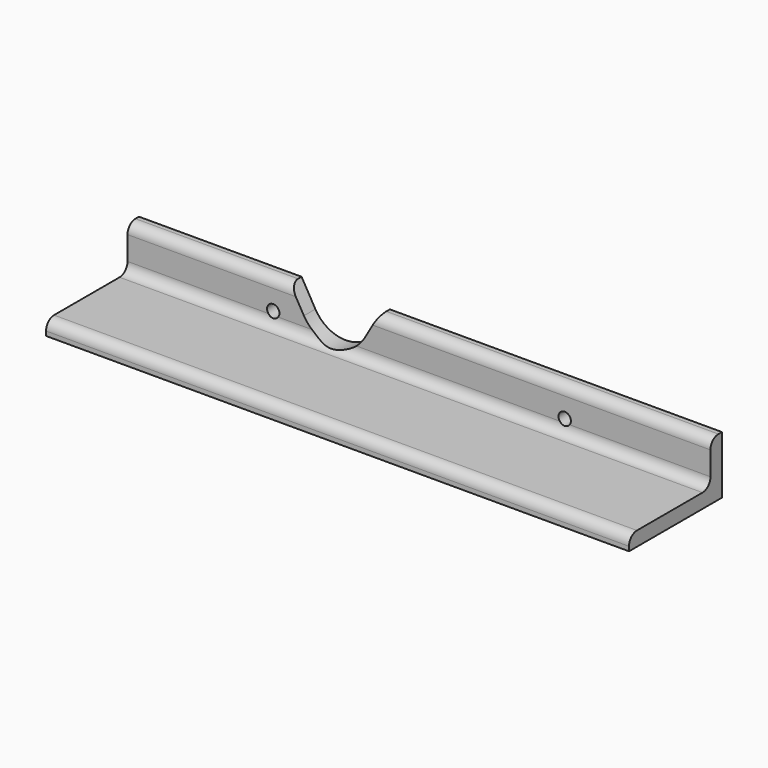
from build123d import *

# Parameters (mm, degrees)
F1_DEPTH = 127
F2_R     = 1.3462
F3_DEPTH = 25.2994
F5_DEPTH = 25.2994


with BuildPart() as f1:
    # F0 (on Right) → F1 (new body)
    with BuildSketch(Plane.YZ):
        with BuildLine():
            Line((-10.285505, -7.297242), (-10.285505, -8.262442))
            Line((-10.285505, -8.262442), (15.012895, -8.262442))
            Line((15.012895, -8.262442), (15.012895, 4.335958))
            Line((15.012895, 4.335958), (14.047695, 4.335958))
            ThreePointArc((14.047695, 4.335958), (12.521052, 3.703602), (11.888695, 2.176958))
            Line((11.888695, 2.176958), (11.888695, -2.979242))
            ThreePointArc((11.888695, -2.979242), (11.256339, -4.505885), (9.729695, -5.138242))
            Line((9.729695, -5.138242), (-8.126505, -5.138242))
            ThreePointArc((-8.126505, -5.138242), (-9.653148, -5.770598), (-10.285505, -7.297242))
        make_face()
    extrude(amount=F1_DEPTH)

    # F2 (on face) → F3 (cut, through all)
    with BuildSketch(Plane(origin=(0, 15.012895, 0), x_dir=(-1, 0, 0), z_dir=(0, 1, 0))):
        with Locations((-31.75, -2.166442)):
            Circle(F2_R)
        with Locations((-95.25, -2.166442)):
            Circle(F2_R)
    extrude(amount=-F3_DEPTH, mode=Mode.SUBTRACT)

    # F4 (on face) → F5 (cut, through all)
    with BuildSketch(Plane(origin=(0, 15.012895, 0), x_dir=(-1, 0, 0), z_dir=(0, 1, 0))):
        with BuildLine():
            Line((-54.656256, 4.335958), (-51.635329, -0.896442))
            ThreePointArc((-51.635329, -0.896442), (-45.036215, -4.706442), (-38.437102, -0.896442))
            Line((-38.437102, -0.896442), (-35.416174, 4.335958))
            Line((-35.416174, 4.335958), (-54.656256, 4.335958))
        make_face()
    extrude(amount=-F5_DEPTH, mode=Mode.SUBTRACT)


solid = f1.part
